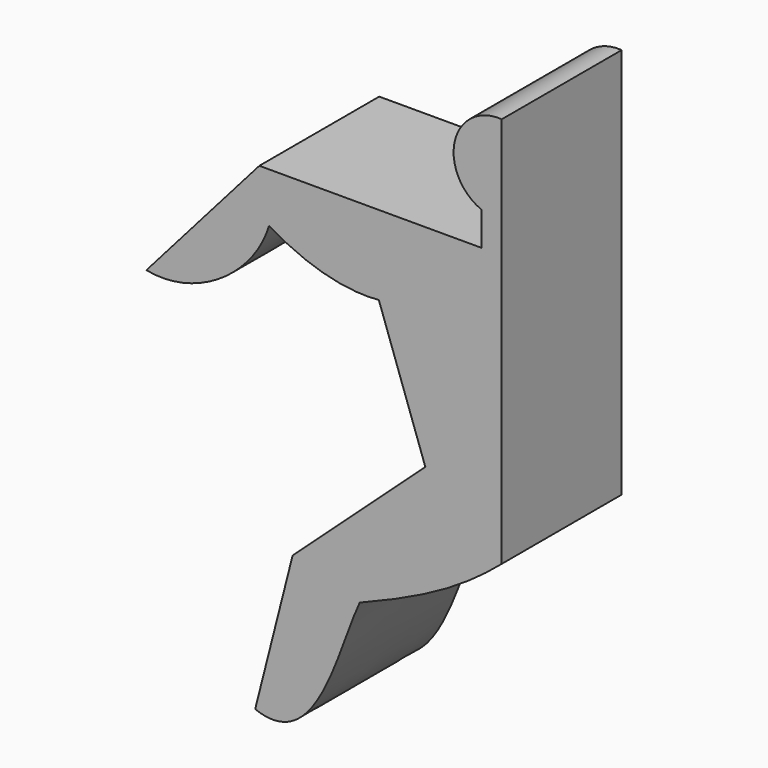
from build123d import *

# Parameters (mm, degrees)
F1_DEPTH = 25


with BuildPart() as f1:
    # F0 (on Front) → F1 (new body)
    with BuildSketch(Plane.XZ):
        with BuildLine():
            ThreePointArc((0, 44.947859), (-7.829862, 39.222287), (-3.407156, 30.589293))
            Line((-3.407156, 30.589293), (-3.407156, 24.967375))
            Line((-3.407156, 24.967375), (-40.440812, 24.967375))
            Line((-40.440812, 24.967375), (-59.282998, 3.510849))
            add(Edge.make_bspline(
                [(-59.282998, 3.510849), (-51.039223, 1.833404), (-41.357578, 8.351474), (-38.817345, 16.690769)],
                knots=[0, 0, 0, 0, 24.342418, 24.342418, 24.342418, 24.342418], degree=3))
            add(Edge.make_bspline(
                [(-38.817345, 16.690769), (-33.421371, 13.424438), (-26.868501, 11.176378), (-20.502377, 11.73953)],
                knots=[0, 0, 0, 0, 18.972422, 18.972422, 18.972422, 18.972422], degree=3))
            Line((-20.502377, 11.73953), (-12.747489, -10.253983))
            Line((-12.747489, -10.253983), (-34.881057, -30.43622))
            Line((-34.881057, -30.43622), (-41.132205, -55.052141))
            add(Edge.make_bspline(
                [(-41.132205, -55.052141), (-30.758676, -59.041798), (-27.452824, -41.829275), (-23.690994, -33.73597)],
                knots=[0, 0, 0, 0, 27.542239, 27.542239, 27.542239, 27.542239], degree=3))
            add(Edge.make_bspline(
                [(-23.690994, -33.73597), (-13.317464, -29.632323), (-6.705762, -26.098624), (0, -20.345102)],
                knots=[0, 0, 0, 0, 27.213573, 27.213573, 27.213573, 27.213573], degree=3))
            Line((0, -20.345102), (0, 44.947859))
        make_face()
    extrude(amount=F1_DEPTH)


solid = f1.part
